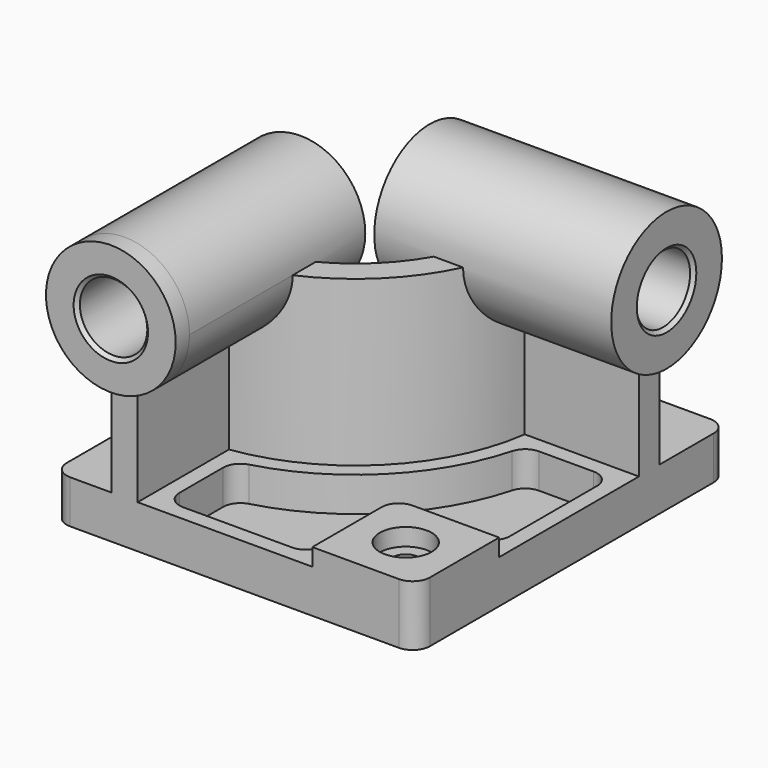
from build123d import *

# Parameters (mm, degrees)
F0_W            = 210
F0_H            = 225
F1_DEPTH        = 25
F3_DEPTH        = 95
F4_R            = 37.5
F5_DEPTH        = 10
F5_DEPTH_BACK   = 127
F6_R            = 40
F7_DEPTH        = 10
F7_DEPTH_BACK   = 127
F8_W            = 60
F8_H            = 60
F9_DEPTH        = 10
F10_R           = 10
F12_DEPTH       = 20
F14_D           = 15
F14_CBORE_D     = 30
F14_CBORE_DEPTH = 10
F15_R           = 10
F16_R           = 19.5
F17_DEPTH       = 235.001
F18_R           = 19.5
F19_DEPTH       = 220.001
F20_SIZE        = 2
F21_R           = 10


with BuildPart() as f1:
    # F0 (on Top) → F1 (new body)
    with BuildSketch(Plane.XY):
        Rectangle(F0_W, F0_H)
    extrude(amount=F1_DEPTH)

    # F2 (on face) → F3 (join)
    with BuildSketch(Plane.XY.offset(25)):
        with BuildLine():
            Line((-71, -32.5), (-71, -112.5))
            Line((-71, -112.5), (-56, -112.5))
            Line((-56, -112.5), (-56, -46.481817))
            ThreePointArc((-56, -46.481817), (7.488853, -14.988853), (38.981817, 48.5))
            Line((38.981817, 48.5), (105, 48.5))
            Line((105, 48.5), (105, 63.5))
            Line((105, 63.5), (25, 63.5))
            ThreePointArc((25, 63.5), (-3.117749, -4.382251), (-71, -32.5))
        make_face()
    extrude(amount=F3_DEPTH)

    # F4 (on face) → F5 (join, two sides)
    with BuildSketch(Plane.XZ.offset(112.5)) as f5_sk:
        with Locations((-63.5, 120)):
            Circle(F4_R)
    extrude(amount=F5_DEPTH)
    extrude(f5_sk.sketch, amount=-F5_DEPTH_BACK)

    # F6 (on face) → F7 (join, two sides)
    with BuildSketch(Plane.YZ.offset(105)) as f7_sk:
        with Locations((56, 120)):
            Circle(F6_R)
    extrude(amount=F7_DEPTH)
    extrude(f7_sk.sketch, amount=-F7_DEPTH_BACK)

    # F8 (on face) → F9 (join)
    with BuildSketch(Plane.XY.offset(25)):
        with Locations((75, -82.5)):
            Rectangle(F8_W, F8_H)
    extrude(amount=F9_DEPTH)

    # F10
    f10_edges = [f1.edges().sort_by_distance(p)[0] for p in [
        (45, -52.5, 30),
    ]]
    fillet(f10_edges, radius=F10_R)

    # F11 (on face) → F12 (cut)
    with BuildSketch(Plane.XY.offset(25)):
        with BuildLine():
            ThreePointArc((46.575508, 39.5), (13.852814, -21.352814), (-47, -54.075508))
            Line((-47, -54.075508), (-47, -103.5))
            Line((-47, -103.5), (36, -103.5))
            Line((36, -103.5), (36, -62.5))
            ThreePointArc((36, -62.5), (41.564971, -49.064971), (55, -43.5))
            Line((55, -43.5), (96, -43.5))
            Line((96, -43.5), (96, 39.5))
            Line((96, 39.5), (46.575508, 39.5))
        make_face()
    extrude(amount=-F12_DEPTH, mode=Mode.SUBTRACT)

    # F14 (through all)
    with Locations(Plane.XY.offset(35)):
        with Locations((75, -82.5)):
            CounterBoreHole(F14_D / 2, F14_CBORE_D / 2, F14_CBORE_DEPTH)

    # F15
    f15_edges = [f1.edges().sort_by_distance(p)[0] for p in [
        (-47, -54.075508, 15),
        (46.575508, 39.5, 15),
        (96, 39.5, 15),
        (-47, -103.5, 15),
        (36, -103.5, 15),
        (96, -43.5, 15),
    ]]
    fillet(f15_edges, radius=F15_R)

    # F16 (on face) → F17 (cut, through all)
    with BuildSketch(Plane.XZ.offset(122.5)):
        with Locations((-63.5, 120)):
            Circle(F16_R)
    extrude(amount=-F17_DEPTH, mode=Mode.SUBTRACT)

    # F18 (on face) → F19 (cut, through all)
    with BuildSketch(Plane.YZ.offset(115)):
        with Locations((56, 120)):
            Circle(F18_R)
    extrude(amount=-F19_DEPTH, mode=Mode.SUBTRACT)

    # F20
    f20_edges = [f1.edges().sort_by_distance(p)[0] for p in [
        (-83, -122.5, 120),
        (115, 36.5, 120),
        (-22, 36.5, 120),
        (-83, 14.5, 120),
    ]]
    chamfer(f20_edges, length=F20_SIZE)

    # F21
    f21_edges = [f1.edges().sort_by_distance(p)[0] for p in [
        (105, -112.5, 17.5),
        (105, 112.5, 12.5),
        (-105, -112.5, 12.5),
        (-105, 112.5, 12.5),
    ]]
    fillet(f21_edges, radius=F21_R)


solid = f1.part
